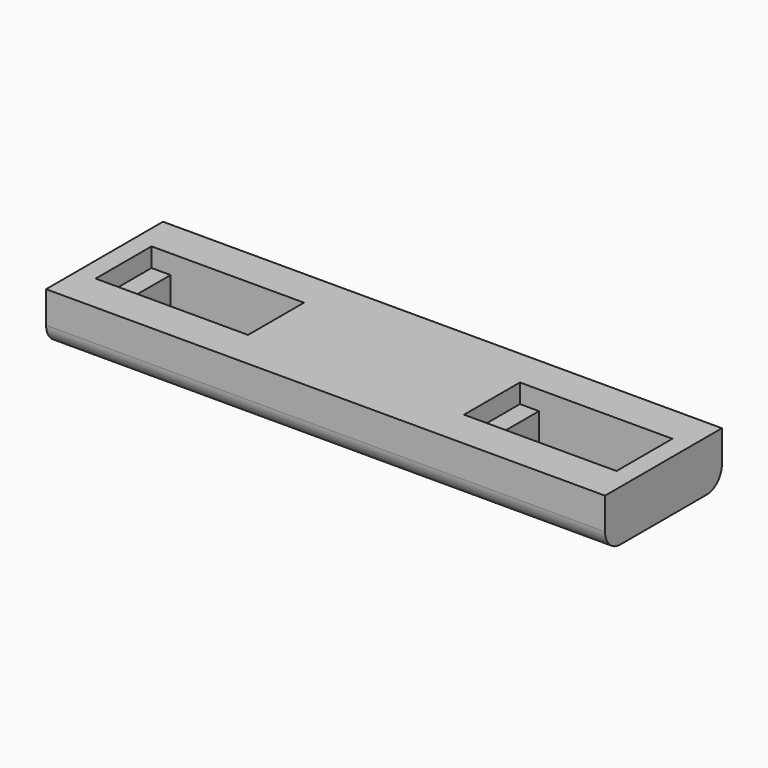
from build123d import *

# Parameters (mm, degrees)
F1_DEPTH = 5
F3_DEPTH = 3
F4_R     = 3


with BuildPart() as f1:
    # F0 (on Top) → F1 (new body)
    with BuildSketch(Plane.XY):
        Polygon((-44, 11.5), (-44, 0), (-44, -11.5), (0, -11.5), (44, -11.5), (44, 0), (44, 11.5), (0, 11.5), align=None)
        Polygon((-20, 5.5), (-20, 0), (-20, -5.5), (-38, -5.5), (-38, 0), (-38, 5.5), align=None, mode=Mode.SUBTRACT)
        Polygon((20, -5.5), (20, 0), (20, 5.5), (38, 5.5), (38, 0), (38, -5.5), align=None, mode=Mode.SUBTRACT)
    extrude(amount=F1_DEPTH)

    # F2 (on face) → F3 (join)
    with BuildSketch(Plane.XY.offset(5)):
        Polygon((-44, 11.5), (-44, 0), (-44, -11.5), (-14, -11.5), (-14, 0), (-14, 11.5), align=None)
        Polygon((-41, 5.5), (-38, 5.5), (-20, 5.5), (-17, 5.5), (-17, 0), (-17, -5.5), (-20, -5.5), (-38, -5.5), (-41, -5.5), (-41, 0), align=None, mode=Mode.SUBTRACT)
        Polygon((14, 11.5), (-14, 11.5), (-14, 0), (-14, -11.5), (14, -11.5), (14, 0), align=None)
        Polygon((44, 11.5), (14, 11.5), (14, 0), (14, -11.5), (44, -11.5), (44, 0), align=None)
        Polygon((17, 0), (17, 5.5), (41, 5.5), (41, 0), (41, -5.5), (17, -5.5), align=None, mode=Mode.SUBTRACT)
    extrude(amount=F3_DEPTH)

    # F4
    f4_edges = [f1.edges().sort_by_distance(p)[0] for p in [
        (0, -11.5, 0),
        (0, 11.5, 0),
    ]]
    fillet(f4_edges, radius=F4_R)


solid = f1.part
